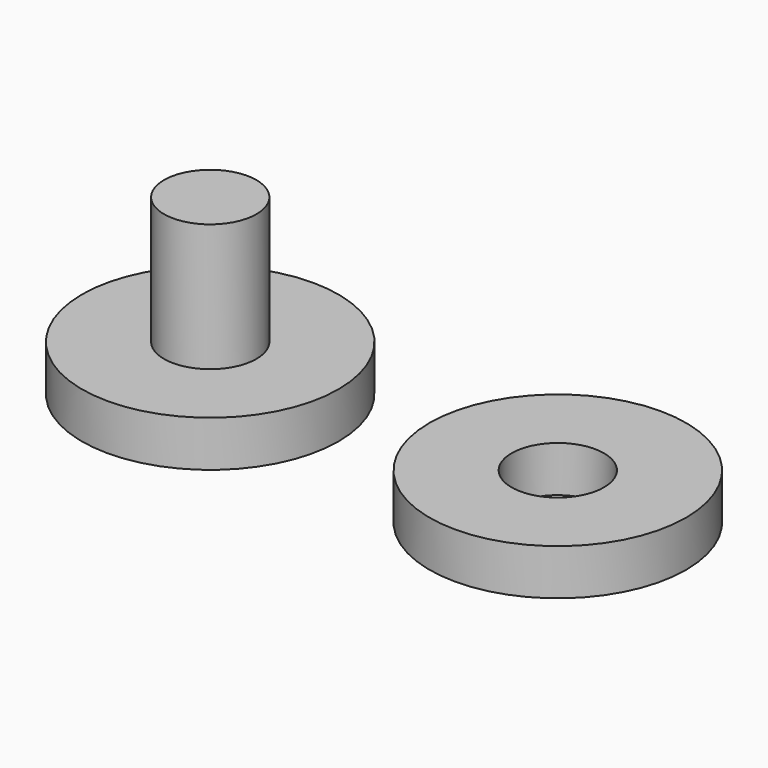
from build123d import *

# Parameters (mm, degrees)
F0_R     = 11.175
F0_R_2   = 4.025
F1_DEPTH = 4
F2_DEPTH = 4
F3_DEPTH = 15.1


with BuildPart() as f1:
    # F0 (on Top) → F1 (new body)
    with BuildSketch(Plane.XY):
        Circle(F0_R)
        Circle(F0_R_2, mode=Mode.SUBTRACT)
    extrude(amount=F1_DEPTH)

    # F0 (on Top) → F3 (join)
    with BuildSketch(Plane.XY):
        Circle(F0_R_2)
    extrude(amount=F3_DEPTH)


with BuildPart() as f2:
    # F0 (on Top) → F2 (new body)
    with BuildSketch(Plane.XY):
        with Locations((30.270739, 0)):
            Circle(F0_R)
        with Locations((30.270739, 0)):
            Circle(F0_R_2, mode=Mode.SUBTRACT)
    extrude(amount=F2_DEPTH)


solid = Compound([f1.part, f2.part])
